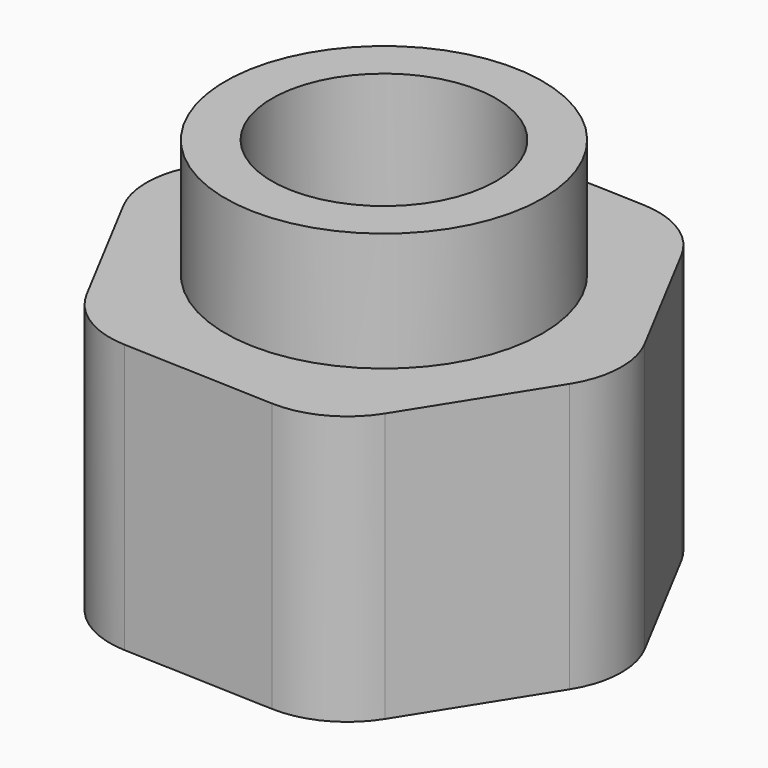
from build123d import *

# Parameters (mm, degrees)
F1_DEPTH = 6
F2_R     = 3.54
F3_DEPTH = 2.65
F4_R     = 2.5
F5_DEPTH = 25
F6_R     = 2


with BuildPart() as f1:
    # F0 (on Top) → F1 (new body)
    with BuildSketch(Plane.XY):
        Polygon((2.6685, -5.054613), (5.711673, -0.216318), (3.043173, 4.838295), (-2.6685, 5.054613), (-5.711673, 0.216318), (-3.043173, -4.838295), align=None)
    extrude(amount=F1_DEPTH)

    # F2 (on face) → F3 (join)
    with BuildSketch(Plane.XY.offset(6)):
        Circle(F2_R)
    extrude(amount=F3_DEPTH)

    # F4 (on face) → F5 (cut)
    with BuildSketch(Plane.XY.offset(8.65)):
        Circle(F4_R)
    extrude(amount=-F5_DEPTH, mode=Mode.SUBTRACT)

    # F6
    f6_edges = [f1.edges().sort_by_distance(p)[0] for p in [
        (2.6685, -5.054613, 3),
        (5.711673, -0.216318, 3),
        (-3.043173, -4.838295, 3),
        (-5.711673, 0.216318, 3),
        (-2.6685, 5.054613, 3),
        (3.043173, 4.838295, 3),
    ]]
    fillet(f6_edges, radius=F6_R)


solid = f1.part
